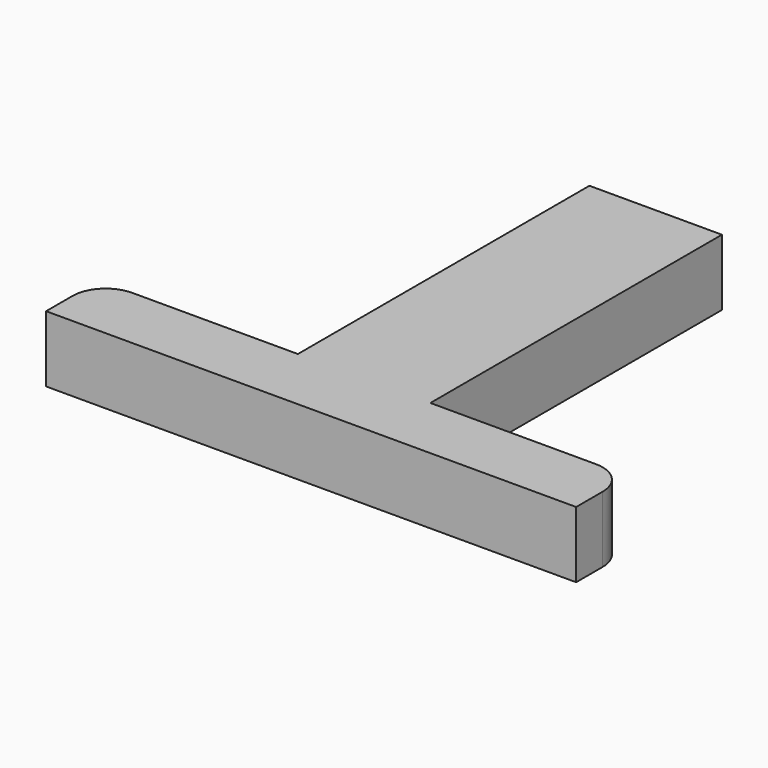
from build123d import *

# Parameters (mm, degrees)
F0_W     = 20
F0_H     = 55
F1_DEPTH = 10
F2_R     = 5


with BuildPart() as f1:
    # F0 (on Top) → F1 (new body)
    with BuildSketch(Plane.XY):
        Polygon((-10, 10), (-40, 10), (-40, 0), (40, 0), (40, 10), (10, 10), align=None)
        with Locations((0, 37.5)):
            Rectangle(F0_W, F0_H)
    extrude(amount=F1_DEPTH)

    # F2
    f2_edges = [f1.edges().sort_by_distance(p)[0] for p in [
        (-40, 10, 5),
        (40, 10, 5),
    ]]
    fillet(f2_edges, radius=F2_R)


solid = f1.part
